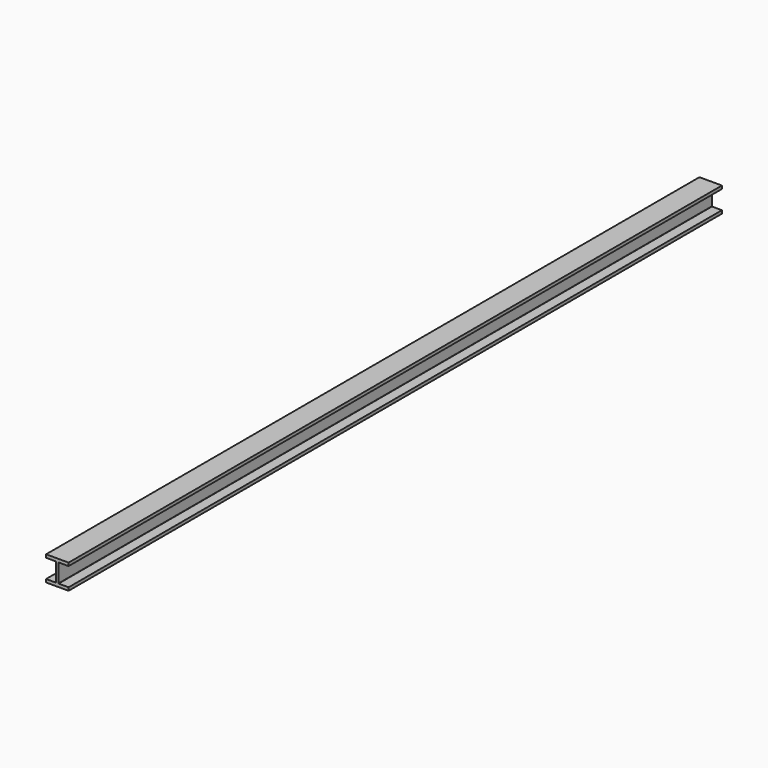
from build123d import *

# Parameters (mm, degrees)
F1_DEPTH = 6680.2


with BuildPart() as f1:
    # F0 (on Front) → F1 (new body)
    with BuildSketch(Plane.XZ):
        with BuildLine():
            Line((92.075, -101.6), (92.075, -76.2))
            Line((92.075, -76.2), (12.065, -76.2))
            ThreePointArc((12.065, -76.2), (10.268949, -75.456051), (9.525, -73.66))
            Line((9.525, -73.66), (9.525, 73.66))
            ThreePointArc((9.525, 73.66), (10.268949, 75.456051), (12.065, 76.2))
            Line((12.065, 76.2), (92.075, 76.2))
            Line((92.075, 76.2), (92.075, 101.6))
            Line((92.075, 101.6), (-92.075, 101.6))
            Line((-92.075, 101.6), (-92.075, 76.2))
            Line((-92.075, 76.2), (-12.065, 76.2))
            ThreePointArc((-12.065, 76.2), (-10.268949, 75.456051), (-9.525, 73.66))
            Line((-9.525, 73.66), (-9.525, -73.66))
            ThreePointArc((-9.525, -73.66), (-10.268949, -75.456051), (-12.065, -76.2))
            Line((-12.065, -76.2), (-92.075, -76.2))
            Line((-92.075, -76.2), (-92.075, -101.6))
            Line((-92.075, -101.6), (92.075, -101.6))
        make_face()
    extrude(amount=-F1_DEPTH)


solid = f1.part
